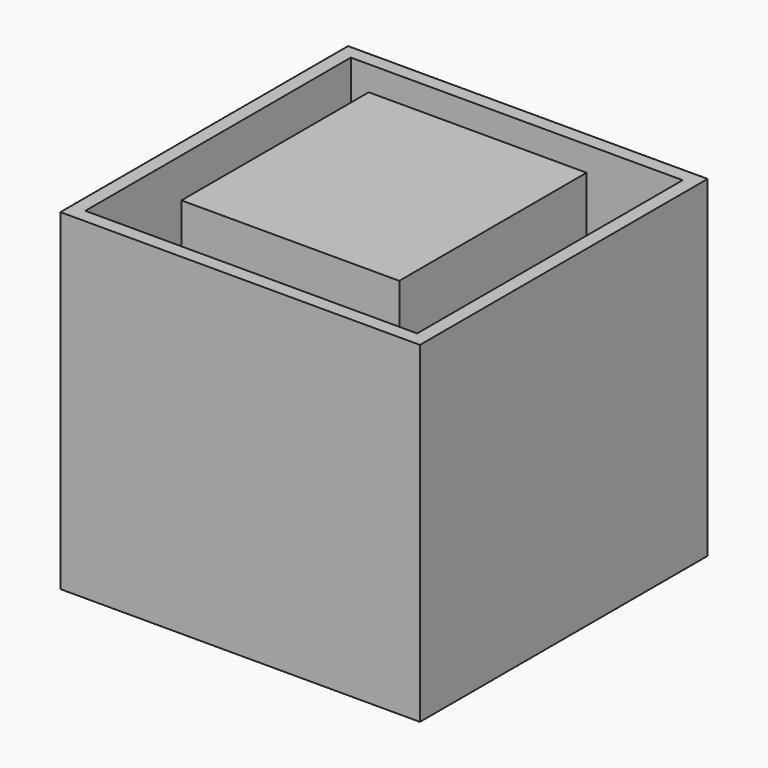
from build123d import *

# Parameters (mm, degrees)
F0_W     = 400.05
F0_H     = 430.022
F2_DEPTH = 624.078
F1_W     = 660.4
F1_H     = 660.4
F1_W_2   = 609.6
F1_H_2   = 609.6
F3_DEPTH = 609.6


with BuildPart() as f2:
    # F0 (on Top) → F2 (new body)
    with BuildSketch(Plane.XY):
        Rectangle(F0_W, F0_H)
    extrude(amount=F2_DEPTH)


with BuildPart() as f3:
    # F1 (on Top) → F3 (new body)
    with BuildSketch(Plane.XY):
        Rectangle(F1_W, F1_H)
        Rectangle(F1_W_2, F1_H_2, mode=Mode.SUBTRACT)
    extrude(amount=F3_DEPTH)


solid = Compound([f2.part, f3.part])
